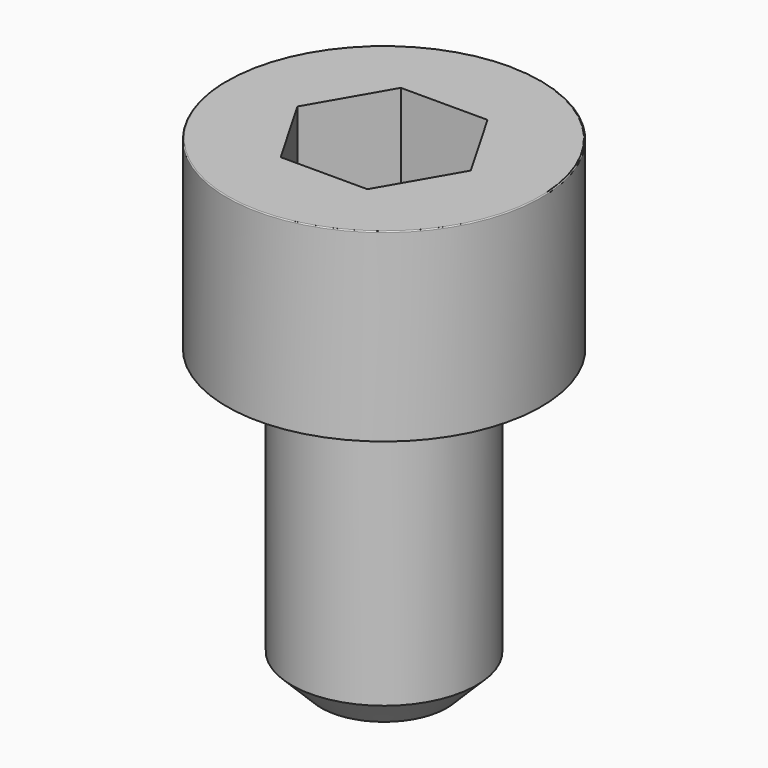
from build123d import *

# Parameters (mm, degrees)
POCKET_DEPTH = 4.06


with BuildPart() as part:
    # Sketch → Revolve (revolve)
    with BuildSketch(Plane.YZ):
        with BuildLine():
            Line((2.499, 0), (4.25, 0))
            Line((4.25, 0), (4.25, 4.97229))
            ThreePointArc((4.25, 4.97229), (4.241884, 4.991884), (4.22229, 5))
            Line((4.22229, 5), (0, 5))
            Line((0, -8), (0, 5))
            Line((1.7, -8), (0, -8))
            Line((2.5, -7.2), (1.7, -8))
            Line((2.5, -0.2), (2.5, -7.2))
            Line((2.499, 0), (2.5, -0.2))
        make_face()
    revolve(axis=Axis((0, 0, 0), (0, 0, 1)))

    # Sketch001 (on Face5 of Revolve) → Pocket (cut)
    with BuildSketch(Plane.XY.offset(5)):
        Polygon((2.344042, 0), (1.172021, 2.03), (-1.172021, 2.03), (-2.344042, 0), (-1.172021, -2.03), (1.172021, -2.03), align=None)
    extrude(amount=-POCKET_DEPTH, mode=Mode.SUBTRACT)


solid = part.part
